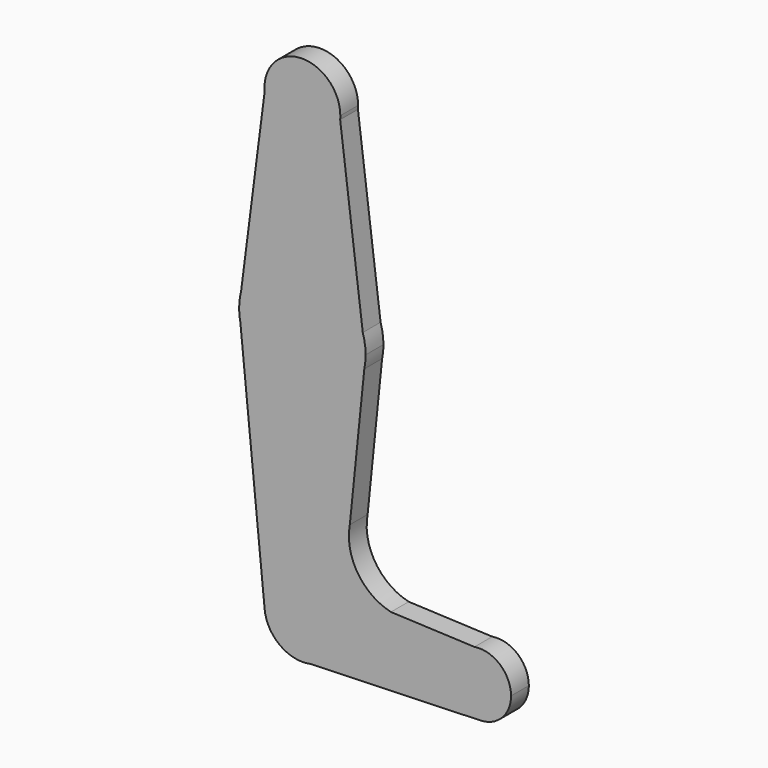
from build123d import *

# Parameters (mm, degrees)
F0_R     = 3.175
F0_R_2   = 1.5875
F1_DEPTH = 5.588


with BuildPart() as f1:
    # F0 (on Front) → F1 (new body)
    with BuildSketch(Plane.XZ):
        with BuildLine():
            ThreePointArc((15.547094004, -3.2099054549), (-0.0454207738, -15.874935022), (-15.5652074351, -3.1208880949))
            Line((-15.5652074351, -3.1208880949), (-9.4824203242, -64.3996275867))
            ThreePointArc((-9.4824203242, -64.3996275867), (-0.4503173391, -53.9856508739), (9.525, -63.5))
            ThreePointArc((9.525, -63.5), (7.3792459071, -69.5226534719), (1.9087575134, -72.8317881328))
            Line((1.9087575134, -72.8317881328), (44.7092226012, -71.4332660294))
            ThreePointArc((44.7092226012, -71.4332660294), (36.5485288978, -64.2554208568), (43.2013451148, -55.6613287333))
            Line((43.2013451148, -55.6613287333), (22.225, -54.7662357154))
            ThreePointArc((22.225, -54.7662357154), (13.8776701671, -48.8669484195), (11.907621819, -38.8370722765))
            Line((11.907621819, -38.8370722765), (15.547094004, -3.2099054549))
        make_face()
        with BuildLine():
            ThreePointArc((15.1641631674, 4.6972098561), (-0.4169440477, 15.8695237062), (-15.3898941796, 3.8944553072))
            ThreePointArc((-15.3898941796, 3.8944553072), (-15.7532567284, 1.9622760889), (-15.875, 0))
            Line((-15.875, 0), (-15.5652074351, -3.1208880949))
            ThreePointArc((-15.5652074351, -3.1208880949), (-0.0454207738, -15.874935022), (15.547094004, -3.2099054549))
            Line((15.547094004, -3.2099054549), (15.875, 0))
            ThreePointArc((15.875, 0), (15.6962848356, 2.3753457345), (15.1641631674, 4.6972098561))
        make_face()
        with Locations((-9.429e-07, -0.0182211279)):
            Circle(F0_R, mode=Mode.SUBTRACT)
        with BuildLine():
            ThreePointArc((9.4824203242, 49.9003724133), (0, 41.275), (-9.4824203242, 49.9003724133))
            Line((-9.4824203242, 49.9003724133), (-15.3898941796, 3.8944553072))
            ThreePointArc((-15.3898941796, 3.8944553072), (-0.4169440477, 15.8695237062), (15.1641631674, 4.6972098561))
            Line((15.1641631674, 4.6972098561), (9.4824203242, 49.9003724133))
        make_face()
        with Locations((-4.310302902, 36.5252)):
            Circle(F0_R_2, mode=Mode.SUBTRACT)
        with BuildLine():
            ThreePointArc((9.525, -63.5), (-0.4503173391, -53.9856508739), (-9.4824203242, -64.3996275867))
            ThreePointArc((-9.4824203242, -64.3996275867), (-5.6670472877, -71.1557298828), (1.9087575134, -72.8317881328))
            ThreePointArc((1.9087575134, -72.8317881328), (7.3792459071, -69.5226534719), (9.525, -63.5))
        make_face()
        with Locations((-0.270415243, -63.8360157609)):
            Circle(F0_R, mode=Mode.SUBTRACT)
        with BuildLine():
            ThreePointArc((9.4824203242, 49.9003724133), (9.5143491261, 50.3496826609), (9.525, 50.8))
            ThreePointArc((9.525, 50.8), (-0.4503173391, 60.3143491261), (-9.4824203242, 49.9003724133))
            ThreePointArc((-9.4824203242, 49.9003724133), (0, 41.275), (9.4824203242, 49.9003724133))
        make_face()
        with Locations((0, 50.8)):
            Circle(F0_R, mode=Mode.SUBTRACT)
        with BuildLine():
            ThreePointArc((43.2013451148, -55.6613287333), (36.5485288978, -64.2554208568), (44.7092226012, -71.4332660294))
            ThreePointArc((44.7092226012, -71.4332660294), (50.1535728122, -69.0202503047), (52.3875, -63.5))
            ThreePointArc((52.3875, -63.5), (49.6023154066, -57.46199104), (43.2013451148, -55.6613287333))
        make_face()
        with Locations((44.3479567766, -64.1064271331)):
            Circle(F0_R, mode=Mode.SUBTRACT)
        with Locations((-0.270415243, -63.8360157609)):
            Circle(F0_R)
        with Locations((0, 50.8)):
            Circle(F0_R)
        with Locations((-9.429e-07, -0.0182211279)):
            Circle(F0_R)
        with Locations((44.3479567766, -64.1064271331)):
            Circle(F0_R)
        with Locations((-4.310302902, 36.5252)):
            Circle(F0_R_2)
        with BuildLine():
            ThreePointArc((15.547094004, -3.2099054549), (15.7928107428, -1.6133052541), (15.875, 0))
            Line((15.875, 0), (15.547094004, -3.2099054549))
        make_face()
        with BuildLine():
            Line((-15.5652074351, -3.1208880949), (-15.875, 0))
            ThreePointArc((-15.875, 0), (-15.7973620113, -1.5681130328), (-15.5652074351, -3.1208880949))
        make_face()
    extrude(amount=F1_DEPTH)


solid = f1.part
